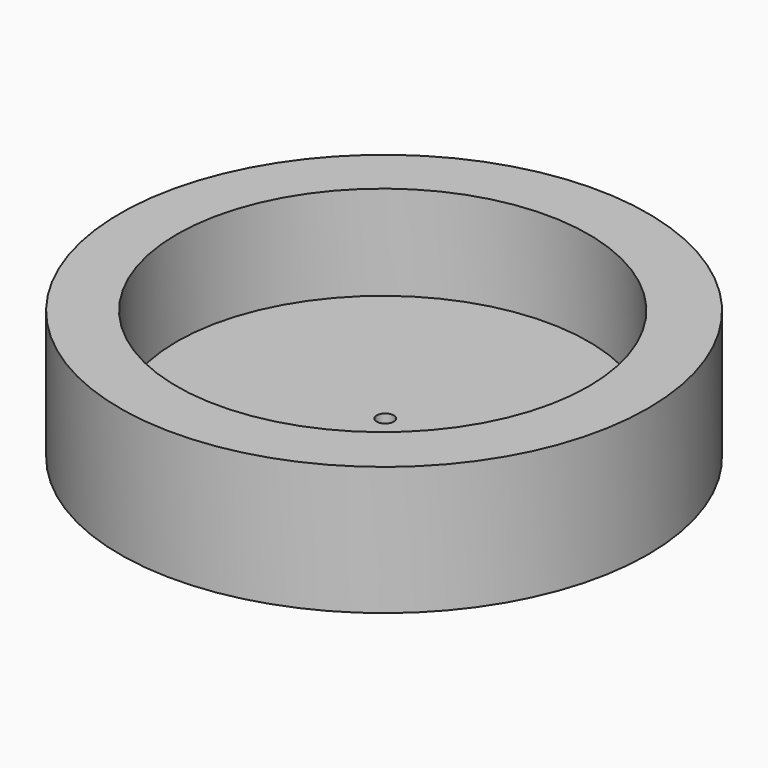
from build123d import *

# Parameters (mm, degrees)
F0_R      = 15.628254
F1_DEPTH  = 7.62
F2_R      = 12.192
F3_DEPTH  = 25.4
F3_FACE_R = 12.192
F4_DEPTH  = 23.368
F5_R      = 0.508
F6_DEPTH  = 12.7


with BuildPart() as f1:
    # F0 (on Top) → F1 (new body)
    with BuildSketch(Plane.XY):
        with Locations((-47.424259, 29.709655)):
            Circle(F0_R)
    extrude(amount=F1_DEPTH)

    # F2 (on Top) → F3 (join)
    with BuildSketch(Plane.XY):
        with Locations((-47.505132, 29.709655)):
            Circle(F2_R)
    extrude(amount=F3_DEPTH)

    # F3_face (on face) → F4 (cut, symmetric)
    with BuildSketch(Plane(origin=(-47.505132, 29.709655, 25.4), x_dir=(1, 0, 0), z_dir=(0, 0, 1))):
        Circle(F3_FACE_R)
    extrude(amount=F4_DEPTH, both=True, mode=Mode.SUBTRACT)

    # F5 (on Top) → F6 (cut, symmetric)
    with BuildSketch(Plane.XY):
        with Locations((-47.353999, 29.709655)):
            Circle(F5_R)
    extrude(amount=F6_DEPTH, both=True, mode=Mode.SUBTRACT)


solid = f1.part
